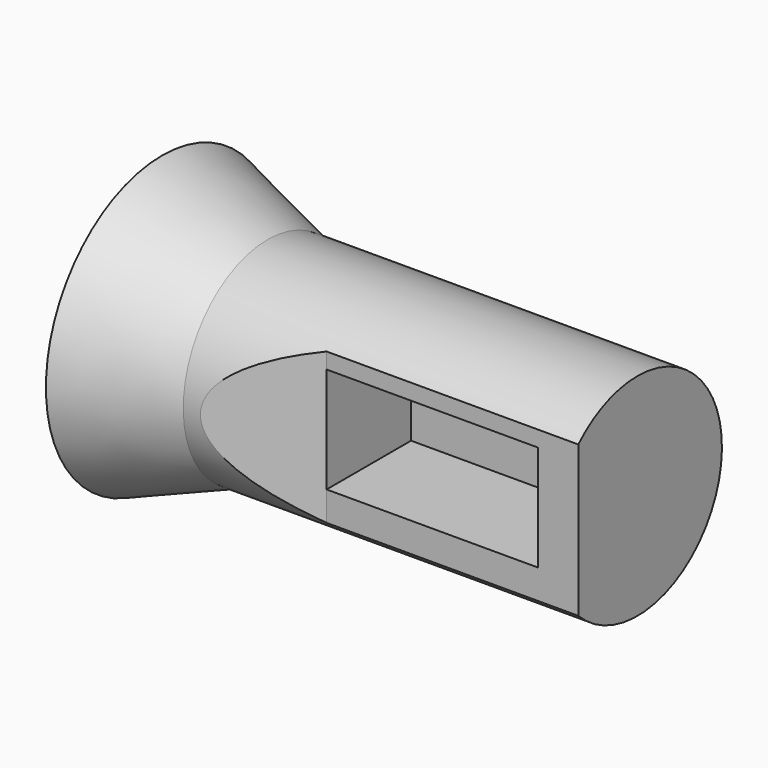
from build123d import *

# Parameters (mm, degrees)
F5_DEPTH = 25.4
F7_W     = 50.8
F7_H     = 25.4
F8_DEPTH = 50.8


with BuildPart() as f2:
    # F0 (on Front) → F2 (revolve)
    with BuildSketch(Plane.XZ):
        Polygon((56.8157893273, 25.4), (0, 25.4), (-32.0842106727, 25.4), (-57.4842106727, 34.925), (-57.4842106727, 0), (56.8157893273, 0), align=None)
    revolve(axis=Axis((-0.3342106727, 0, 0), (1, 0, 0)))

    # F4 (on Top) → F5 (cut, symmetric)
    with BuildSketch(Plane.XY):
        Polygon((-27.94, -30.9217389812), (58.42, -30.9217389812), (58.42, -17.78), (-3.709944284, -17.78), (-27.94, -25.4), align=None)
    extrude(amount=F5_DEPTH, both=True, mode=Mode.SUBTRACT)

    # F7 (on offset) → F8 (cut)
    with BuildSketch(Plane.XZ.offset(43.18)):
        with Locations((21.690055716, 1.6290084645)):
            Rectangle(F7_W, F7_H)
    extrude(amount=-F8_DEPTH, mode=Mode.SUBTRACT)


solid = f2.part
